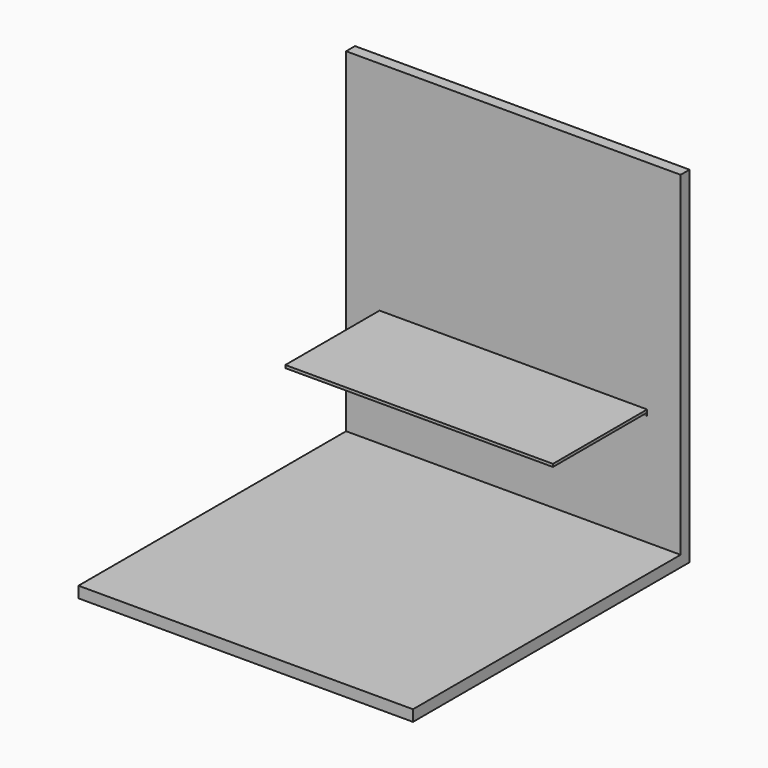
from build123d import *

# Parameters (mm, degrees)
F1_DEPTH = 1524
F2_W     = 1066.8
F2_H     = 25.4
F3_DEPTH = 1219.2


with BuildPart() as f1:
    # F0 (on Right) → F1 (new body, symmetric)
    with BuildSketch(Plane.YZ):
        Polygon((0, 0), (-3048, 0), (-3048, -101.6), (101.6, -101.6), (101.6, 3048), (0, 3048), align=None)
    extrude(amount=F1_DEPTH, both=True)


with BuildPart() as f3:
    # F2 (on Right) → F3 (new body, symmetric)
    with BuildSketch(Plane.YZ):
        with Locations((-539.75, 1054.1)):
            Rectangle(F2_W, F2_H)
        Polygon((0, 1066.8), (-6.35, 1066.8), (-6.35, 1041.4), (-6.35, 1016), (0, 1016), align=None)
    extrude(amount=F3_DEPTH, both=True)


solid = Compound([f1.part, f3.part])
